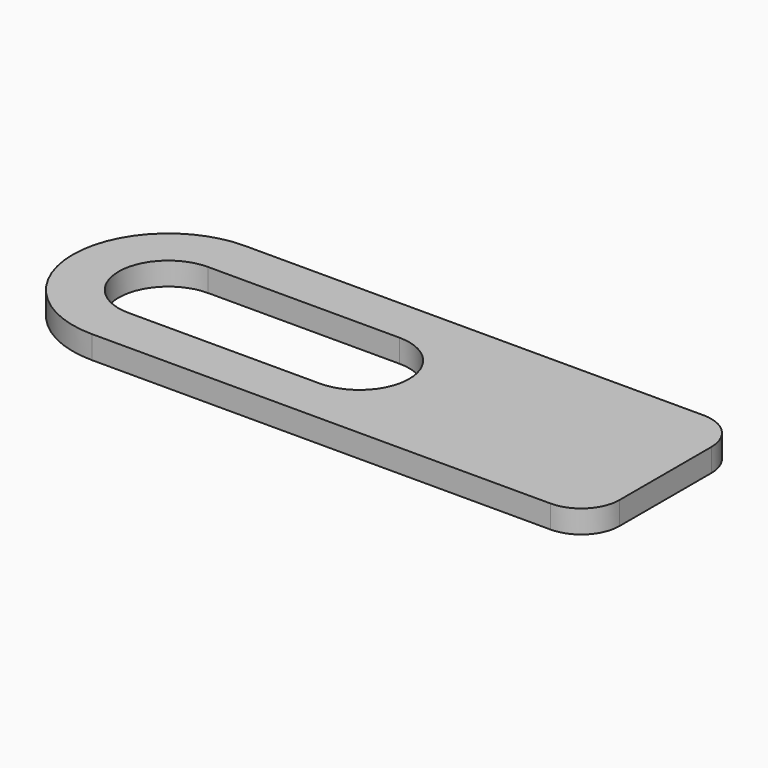
from build123d import *

# Parameters (mm, degrees)
F1_DEPTH = 3


with BuildPart() as f1:
    # F0 (on Top) → F1 (new body)
    with BuildSketch(Plane.XY):
        with BuildLine():
            Line((0, 6), (0, 0))
            Line((0, 0), (60, 0))
            ThreePointArc((60, 0), (63.535534, 1.464466), (65, 5))
            Line((65, 5), (65, 20))
            ThreePointArc((65, 20), (63.535534, 23.535534), (60, 25))
            Line((60, 25), (0, 25))
            Line((0, 25), (0, 19))
            Line((0, 19), (25, 19))
            ThreePointArc((25, 19), (31.5, 12.5), (25, 6))
            Line((25, 6), (0, 6))
        make_face()
        with BuildLine():
            ThreePointArc((0, 25), (-12.5, 12.5), (0, 0))
            Line((0, 0), (0, 6))
            ThreePointArc((0, 6), (-6.5, 12.5), (0, 19))
            Line((0, 19), (0, 25))
        make_face()
    extrude(amount=F1_DEPTH)


solid = f1.part
